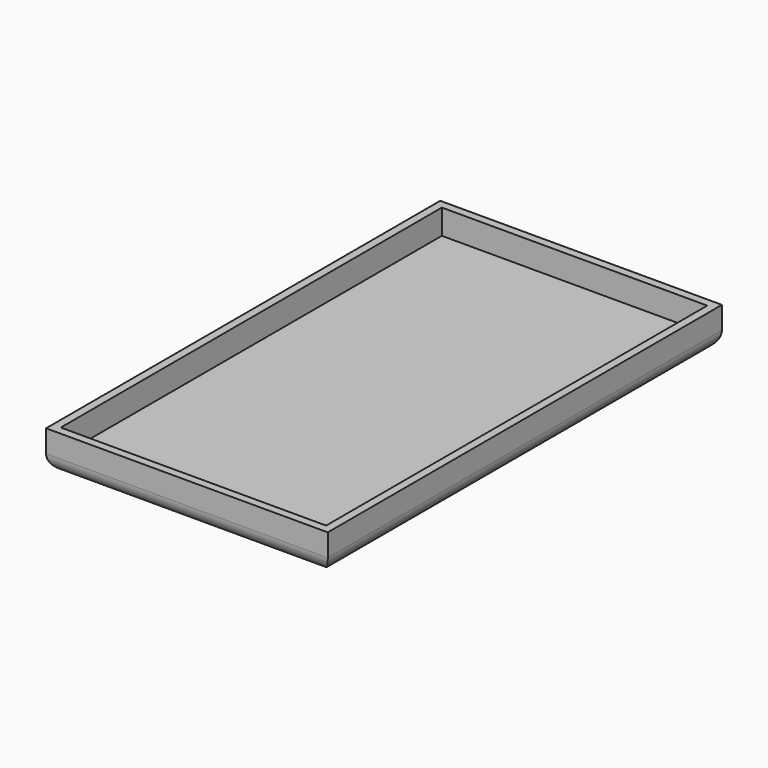
from build123d import *

# Parameters (mm, degrees)
F0_W     = 87.7170339227
F0_H     = 153.4254997969
F1_DEPTH = 1.7726365477
F2_W     = 87.7170339227
F2_H     = 153.4254997969
F3_DEPTH = 5.9710852802
F4_T     = -2.54
F5_DEPTH = 4.318
F6_R     = 5.08


with BuildPart() as f1:
    # F0 (on Top) → F1 (new body)
    with BuildSketch(Plane.XY):
        Rectangle(F0_W, F0_H)
    extrude(amount=F1_DEPTH)

    # F2 (on face) → F3 (join)
    with BuildSketch(Plane.XY.offset(1.7726365477)):
        Rectangle(F2_W, F2_H)
    extrude(amount=F3_DEPTH)

    # F4
    f4_openings = [f1.faces().sort_by_distance(p)[0] for p in [
        (0, 0, 7.743722),
    ]]
    offset(amount=F4_T, openings=f4_openings)

    # F5 (add): faces of the model
    f5_faces = [f1.faces().sort_by_distance(p)[0] for p in [
        (-42.0912121764, 0, 7.7437218279),
        (0, 0, 0),
    ]]
    extrude(f5_faces, amount=F5_DEPTH, dir=(0, 0, 1))

    # F6
    f6_edges = [f1.edges().sort_by_distance(p)[0] for p in [
        (0, -76.71275, 0),
        (43.858517, 0, 0),
        (0, 76.71275, 0),
        (-43.858517, 0, 0),
    ]]
    fillet(f6_edges, radius=F6_R)


solid = f1.part
